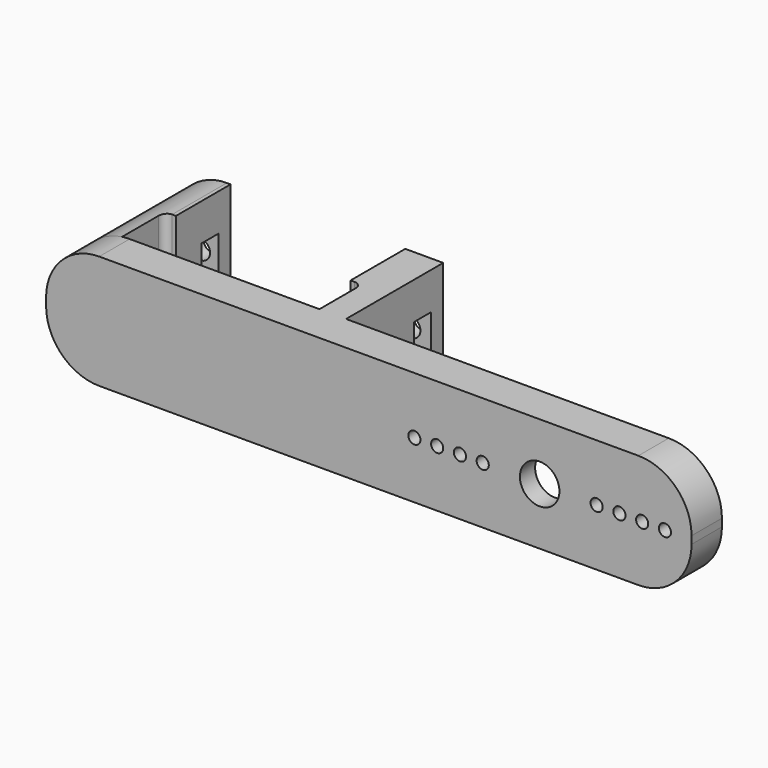
from build123d import *

# Parameters (mm, degrees)
F0_W      = 85
F0_H      = 15
F0_R      = 2.6
F1_DEPTH  = 5
F3_DEPTH  = 2.5
F4_R      = 7
F5_R      = 0.8
F6_DEPTH  = 2.5
F7_W      = 5
F7_H      = 15
F8_DEPTH  = 16
F10_D     = 2.5
F10_DEPTH = 8
F10_TIP   = 0.7510757738
F11_W     = 2.8
F11_H     = 5.2
F12_DEPTH = 33
F13_W     = 26
F13_H     = 7
F14_DEPTH = 15
F15_R     = 1
F16_W     = 4.5
F16_H     = 4.5
F17_DEPTH = 5


with BuildPart() as f1:
    # F0 (on Front) → F1 (new body)
    with BuildSketch(Plane.XZ):
        with Locations((42.5, 0)):
            Rectangle(F0_W, F0_H)
        with Locations((65, 0)):
            Circle(F0_R, mode=Mode.SUBTRACT)
    extrude(amount=-F1_DEPTH)

    # F2 (on face) → F3 (cut)
    with BuildSketch(Plane(origin=(0, 5, 0), x_dir=(-1, 0, 0), z_dir=(0, 1, 0))):
        with BuildLine():
            Line((-81.8847875997, -2.6724405518), (-69.1919565837, -4.5))
            ThreePointArc((-69.1919565837, -4.5), (-65, -6.15), (-60.8080434163, -4.5))
            Line((-60.8080434163, -4.5), (-48.1152124003, -2.6724405518))
            ThreePointArc((-48.1152124003, -2.6724405518), (-45.8, 0), (-48.1152124003, 2.6724405518))
            Line((-48.1152124003, 2.6724405518), (-60.8080434163, 4.5))
            ThreePointArc((-60.8080434163, 4.5), (-65, 6.15), (-69.1919565837, 4.5))
            Line((-69.1919565837, 4.5), (-81.8847875997, 2.6724405518))
            ThreePointArc((-81.8847875997, 2.6724405518), (-84.2, 0), (-81.8847875997, -2.6724405518))
        make_face()
    extrude(amount=-F3_DEPTH, mode=Mode.SUBTRACT)

    # F4
    f4_edges = [f1.edges().sort_by_distance(p)[0] for p in [
        (85, 2.5, 7.5),
        (85, 2.5, -7.5),
        (0, 2.5, 7.5),
        (0, 2.5, -7.5),
    ]]
    fillet(f4_edges, radius=F4_R)

    # F5 (on face) → F6 (cut, through all)
    with BuildSketch(Plane(origin=(0, 2.5, 0), x_dir=(-1, 0, 0), z_dir=(0, 1, 0))):
        with Locations((-81.5, 0)):
            Circle(F5_R)
        with Locations((-78.5, 0)):
            Circle(F5_R)
        with Locations((-75.5, 0)):
            Circle(F5_R)
        with Locations((-72.5, 0)):
            Circle(F5_R)
        with Locations((-57.5, 0)):
            Circle(F5_R)
        with Locations((-54.5, 0)):
            Circle(F5_R)
        with Locations((-51.5, 0)):
            Circle(F5_R)
        with Locations((-48.5, 0)):
            Circle(F5_R)
    extrude(amount=-F6_DEPTH, mode=Mode.SUBTRACT)

    # F7 (on face) → F8 (join)
    with BuildSketch(Plane(origin=(0, 5, 0), x_dir=(-1, 0, 0), z_dir=(0, 1, 0))):
        with Locations((-33, 0)):
            Rectangle(F7_W, F7_H)
        with BuildLine():
            Line((-7, 7.5), (-7.5, 7.5))
            Line((-7.5, 7.5), (-7.5, -7.5))
            Line((-7.5, -7.5), (-7, -7.5))
            ThreePointArc((-7, -7.5), (-4.6055604551, -7.0777396776), (-2.5, -5.8619026474))
            Line((-2.5, -5.8619026474), (-2.5, 5.8619026474))
            ThreePointArc((-2.5, 5.8619026474), (-4.6055604551, 7.0777396776), (-7, 7.5))
        make_face()
    extrude(amount=F8_DEPTH)

    # F10
    with Locations(Plane(origin=(0, 21, 0), x_dir=(-1, 0, 0), z_dir=(0, 1, 0))):
        with Locations((-32.85, 0), (-5.15, 0)):
            Hole(F10_D / 2, depth=F10_DEPTH)
            with Locations((0, 0, -(F10_DEPTH + F10_TIP / 2))):  # 118° drill point
                Cone(0, F10_D / 2, F10_TIP, mode=Mode.SUBTRACT)

    # F11 (on face) → F12 (cut, through all)
    with BuildSketch(Plane(origin=(2.5, 0, 0), x_dir=(0, -1, 0), z_dir=(-1, 0, 0))):
        with Locations((-17.6, 0)):
            Rectangle(F11_W, F11_H)
    extrude(amount=-F12_DEPTH, mode=Mode.SUBTRACT)

    # F13 (on face) → F14 (cut, through all)
    with BuildSketch(Plane(origin=(0, 0, -7.5), x_dir=(1, 0, 0), z_dir=(0, 0, -1))):
        with Locations((19, -8.5)):
            Rectangle(F13_W, F13_H)
    extrude(amount=-F14_DEPTH, mode=Mode.SUBTRACT)

    # F15
    f15_edges = [f1.edges().sort_by_distance(p)[0] for p in [
        (32, 12, 0),
        (6, 12, 0),
    ]]
    fillet(f15_edges, radius=F15_R)

    # F16 (on face) → F17 (cut, through all)
    with BuildSketch(Plane.YZ.offset(35.5)):
        with Locations((9.75, 0)):
            Rectangle(F16_W, F16_H)
    extrude(amount=-F17_DEPTH, mode=Mode.SUBTRACT)


solid = f1.part
